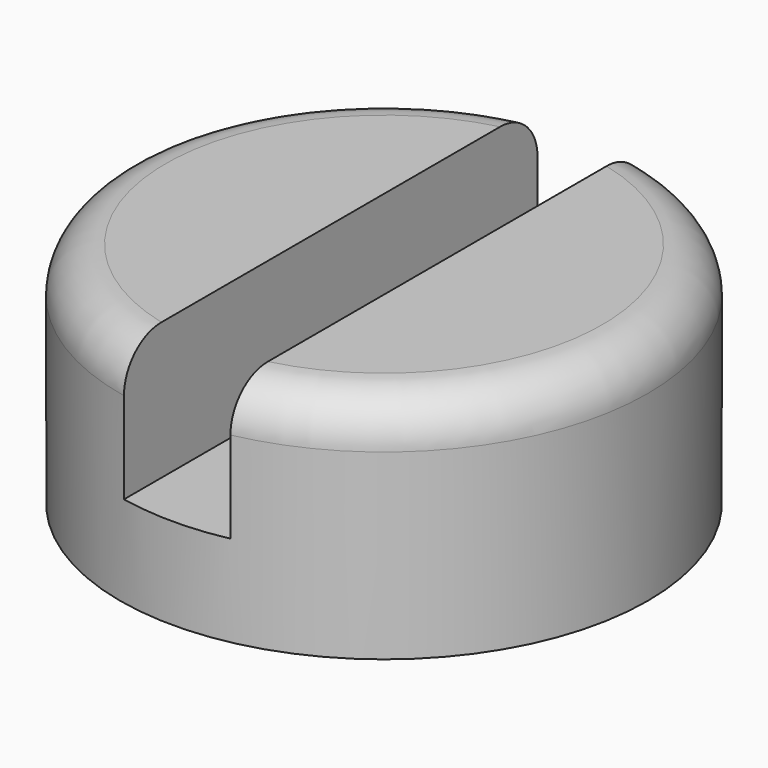
from build123d import *

# Parameters (mm, degrees)
SKETCH017_R     = 1.735
PAD008_DEPTH    = 1.5
SKETCH018_W     = 0.7
SKETCH018_H     = 4
POCKET007_DEPTH = 0.9
FILLET007_R     = 0.3


with BuildPart() as part:
    # Sketch017 → Pad008 (new body)
    with BuildSketch(Plane.XY):
        Circle(SKETCH017_R)
    extrude(amount=PAD008_DEPTH)

    # Sketch018 (on Face3 of Pad008) → Pocket007 (cut)
    with BuildSketch(Plane.XY.offset(1.5)):
        Rectangle(SKETCH018_W, SKETCH018_H)
    extrude(amount=-POCKET007_DEPTH, mode=Mode.SUBTRACT)

    # Fillet007
    fillet007_edges = [part.edges().sort_by_distance(p)[0] for p in [
        (1.344893, -1.096124, 1.5),
        (-1.735, 0, 1.5),
    ]]
    fillet(fillet007_edges, radius=FILLET007_R)


with BuildPart() as part_1:
    # Body006 placement: moved
    add(part.part.moved(Location((3.477525, 0, 6.9297))))


solid = part_1.part
